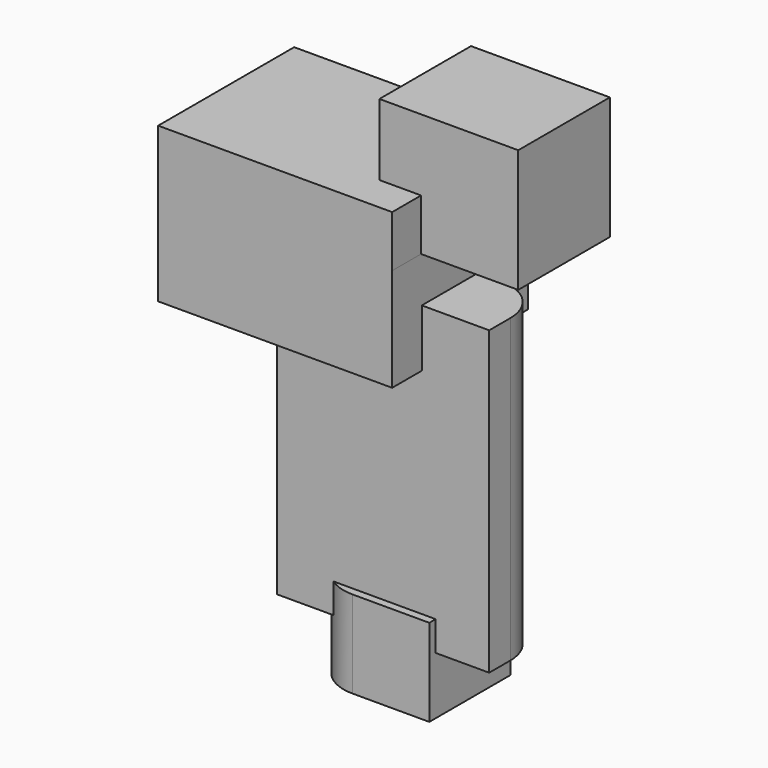
from build123d import *

# Parameters (mm, degrees)
F1_DEPTH      = 4
F1_DEPTH_BACK = 4
F0_W          = 16.4369798731
F0_H          = 6.529757753
F0_W_2        = 4.7284475295
F0_H_2        = 5.8542657644
F2_DEPTH      = 8.2
F2_DEPTH_BACK = 11.1
F3_DEPTH      = 4.1
F3_DEPTH_BACK = 8.9
F0_W_3        = 13.7350079603
F0_H_3        = 3.3774608746
F4_DEPTH      = 4.9
F4_DEPTH_BACK = 6.6
F5_R          = 5


with BuildPart() as f1:
    # F0 (on Front) → F1 (new body, two sides)
    with BuildSketch(Plane.XZ) as f1_sk:
        Polygon((10.553249158, 21.6060578823), (2.897671191, 21.6060578823), (2.897671191, 15.0763001293), (-13.5393086821, 15.0763001293), (-13.5393086821, -12.6188807189), (-9.2611899599, -12.6188807189), (-9.2611899599, -9.2414198443), (4.4738180004, -9.2414198443), (4.4738180004, -12.6188807189), (10.553249158, -12.6188807189), align=None)
    extrude(amount=F1_DEPTH)
    extrude(f1_sk.sketch, amount=-F1_DEPTH_BACK)

    # F0 (on Front) → F2 (join, two sides)
    with BuildSketch(Plane.XZ) as f2_sk:
        with Locations((-5.3208187455, 18.3411790058)):
            Rectangle(F0_W, F0_H)
        Polygon((-13.5393086821, 15.0763001293), (-13.5393086821, 21.6060578823), (2.897671191, 21.6060578823), (2.897671191, 26.784831658), (-1.8307763385, 26.784831658), (-1.8307763385, 32.6390974224), (-23.6716903746, 32.6390974224), (-23.6716903746, 15.0763001293), align=None)
        with Locations((0.5334474263, 29.7119645402)):
            Rectangle(F0_W_2, F0_H_2)
    extrude(amount=F2_DEPTH)
    extrude(f2_sk.sketch, amount=-F2_DEPTH_BACK)

    # F0 (on Front) → F3 (join, two sides)
    with BuildSketch(Plane.XZ) as f3_sk:
        Polygon((2.897671191, 32.6390974224), (2.897671191, 26.784831658), (13.9307100326, 26.784831658), (13.9307100326, 40.7450050116), (-1.8307763385, 40.7450050116), (-1.8307763385, 32.6390974224), align=None)
        with Locations((0.5334474263, 29.7119645402)):
            Rectangle(F0_W_2, F0_H_2)
    extrude(amount=F3_DEPTH)
    extrude(f3_sk.sketch, amount=-F3_DEPTH_BACK)

    # F0 (on Front) → F4 (join, two sides)
    with BuildSketch(Plane.XZ) as f4_sk:
        with Locations((-2.3936859798, -10.9301502816)):
            Rectangle(F0_W_3, F0_H_3)
        with Locations((-2.3936859798, -15.8837595955)):
            Rectangle(F0_W_3, F0_H)
    extrude(amount=F4_DEPTH)
    extrude(f4_sk.sketch, amount=-F4_DEPTH_BACK)

    # F5
    f5_edges = [f1.edges().sort_by_distance(p)[0] for p in [
        (10.553249, 4, 4.493589),
        (-9.26119, -4.9, -14.195029),
    ]]
    fillet(f5_edges, radius=F5_R)


solid = f1.part
